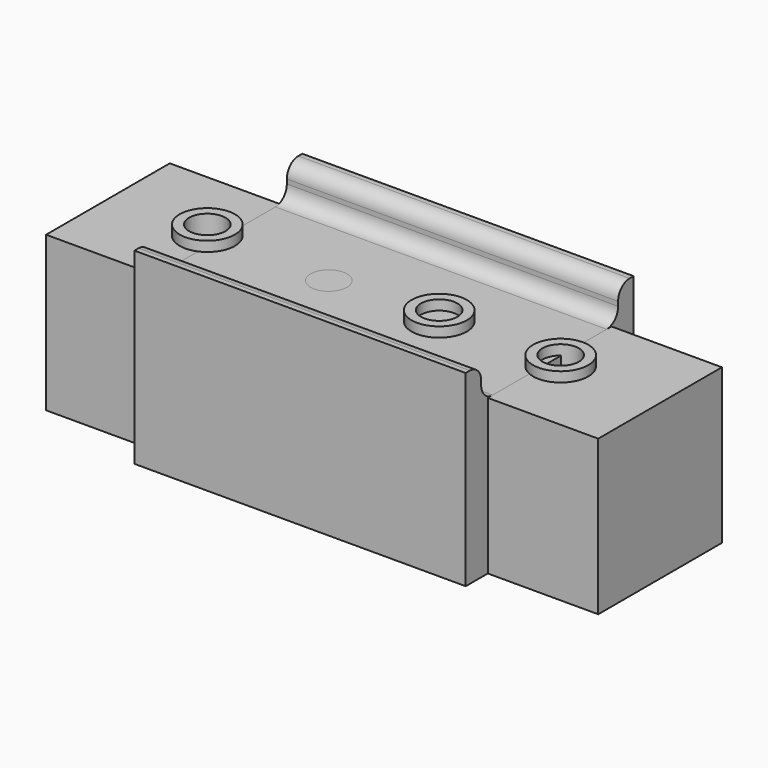
from build123d import *

# Parameters (mm, degrees)
CYLINDER005_R     = 1.65
CYLINDER005_DEPTH = 15
CYLINDER006_R     = 1.65
CYLINDER006_DEPTH = 15
CYLINDER004_R     = 2
CYLINDER004_DEPTH = 10
CYLINDER002_R     = 1.65
CYLINDER002_DEPTH = 14
CYLINDER_R        = 2.5
CYLINDER_DEPTH    = 14.9
BOX_W             = 50
BOX_H             = 14
BOX_DEPTH         = 14
CYLINDER001_R     = 2.5
CYLINDER001_DEPTH = 14.9
CYLINDER009_R     = 1.65
CYLINDER009_DEPTH = 14
CYLINDER008_R     = 1.65
CYLINDER008_DEPTH = 14.9
BOX002_W          = 30
BOX002_H          = 15.5
BOX002_DEPTH      = 10
BOX001_W          = 30
BOX001_H          = 19
BOX001_DEPTH      = 17
FILLET_R          = 1.3
CYLINDER007_R     = 2.5
CYLINDER007_DEPTH = 14.9
CYLINDER011_R     = 3.75
CYLINDER011_DEPTH = 6
CYLINDER012_R     = 1.65
CYLINDER012_DEPTH = 14
CYLINDER010_R     = 2
CYLINDER010_DEPTH = 14
BOX004_W          = 30
BOX004_H          = 15.5
BOX004_DEPTH      = 10
BOX003_W          = 30
BOX003_H          = 19
BOX003_DEPTH      = 17
FILLET001_R       = 1.3


with BuildPart() as cylinder005:
    # Cylinder005 → Cylinder005 (new body)
    with BuildSketch(Plane(origin=(16, 0, 0), x_dir=(1, 0, 0), z_dir=(0, 0, 1))):
        Circle(CYLINDER005_R)
    extrude(amount=CYLINDER005_DEPTH)


with BuildPart() as cylinder006:
    # Cylinder006 → Cylinder006 (new body)
    with BuildSketch(Plane(origin=(-16, 0, 0), x_dir=(1, 0, 0), z_dir=(0, 0, 1))):
        Circle(CYLINDER006_R)
    extrude(amount=CYLINDER006_DEPTH)


with BuildPart() as cylinder004:
    # Cylinder004 → Cylinder004 (new body)
    with BuildSketch(Plane.XY):
        Circle(CYLINDER004_R)
    extrude(amount=CYLINDER004_DEPTH)


with BuildPart() as fusion004:
    # Cylinder002 → Cylinder002 (new body)
    with BuildSketch(Plane.XY):
        Circle(CYLINDER002_R)
    extrude(amount=CYLINDER002_DEPTH)

    # Fusion004: union Cylinder005, Cylinder006, Cylinder004
    add(cylinder005.part)
    add(cylinder006.part)
    add(cylinder004.part)


with BuildPart() as cylinder:
    # Cylinder → Cylinder (new body)
    with BuildSketch(Plane(origin=(16, 0, 0), x_dir=(1, 0, 0), z_dir=(0, 0, 1))):
        Circle(CYLINDER_R)
    extrude(amount=CYLINDER_DEPTH)


with BuildPart() as box:
    # Box → Box (new body)
    with BuildSketch(Plane(origin=(-25, -7, 0), x_dir=(1, 0, 0), z_dir=(0, 0, 1))):
        with Locations((25, 7)):
            Rectangle(BOX_W, BOX_H)
    extrude(amount=BOX_DEPTH)


with BuildPart() as cut:
    # Cylinder001 → Cylinder001 (new body)
    with BuildSketch(Plane(origin=(-16, 0, 0), x_dir=(1, 0, 0), z_dir=(0, 0, 1))):
        Circle(CYLINDER001_R)
    extrude(amount=CYLINDER001_DEPTH)

    # Fusion: union Cylinder, Box
    add(cylinder.part)
    add(box.part)

    # Cut: cut Fusion004
    add(fusion004.part, mode=Mode.SUBTRACT)


with BuildPart() as cylinder009:
    # Cylinder009 → Cylinder009 (new body)
    with BuildSketch(Plane(origin=(-5, 0, 0), x_dir=(1, 0, 0), z_dir=(0, 0, 1))):
        Circle(CYLINDER009_R)
    extrude(amount=CYLINDER009_DEPTH)


with BuildPart() as fusion005:
    # Cylinder008 → Cylinder008 (new body)
    with BuildSketch(Plane(origin=(5, 0, 0), x_dir=(1, 0, 0), z_dir=(0, 0, 1))):
        Circle(CYLINDER008_R)
    extrude(amount=CYLINDER008_DEPTH)

    # Fusion005: union Cylinder009
    add(cylinder009.part)


with BuildPart() as box002:
    # Box002 → Box002 (new body)
    with BuildSketch(Plane(origin=(-15, -7.75, 14), x_dir=(1, 0, 0), z_dir=(0, 0, 1))):
        with Locations((15, 7.75)):
            Rectangle(BOX002_W, BOX002_H)
    extrude(amount=BOX002_DEPTH)


with BuildPart() as fillet_body:
    # Box001 → Box001 (new body)
    with BuildSketch(Plane(origin=(-15, -9.5, 0), x_dir=(1, 0, 0), z_dir=(0, 0, 1))):
        with Locations((15, 9.5)):
            Rectangle(BOX001_W, BOX001_H)
    extrude(amount=BOX001_DEPTH)

    # Cut001: cut Box002
    add(box002.part, mode=Mode.SUBTRACT)

    # Fillet
    fillet_edges = [fillet_body.edges().sort_by_distance(p)[0] for p in [
        (0, -7.75, 17),
        (0, -7.75, 14),
        (0, 7.75, 14),
        (0, 7.75, 17),
    ]]
    fillet(fillet_edges, radius=FILLET_R)


with BuildPart() as cut003:
    # Cylinder007 → Cylinder007 (new body)
    with BuildSketch(Plane(origin=(5, 0, 0), x_dir=(1, 0, 0), z_dir=(0, 0, 1))):
        Circle(CYLINDER007_R)
    extrude(amount=CYLINDER007_DEPTH)

    # Fusion002: union Fillet body
    add(fillet_body.part)

    # Cut003: cut Fusion005
    add(fusion005.part, mode=Mode.SUBTRACT)


with BuildPart() as cylinder011:
    # Cylinder011 → Cylinder011 (new body)
    with BuildSketch(Plane(origin=(5, 0, 0), x_dir=(1, 0, 0), z_dir=(0, 0, 1))):
        Circle(CYLINDER011_R)
    extrude(amount=CYLINDER011_DEPTH)


with BuildPart() as cylinder012:
    # Cylinder012 → Cylinder012 (new body)
    with BuildSketch(Plane(origin=(-5, 0, 0), x_dir=(1, 0, 0), z_dir=(0, 0, 1))):
        Circle(CYLINDER012_R)
    extrude(amount=CYLINDER012_DEPTH)


with BuildPart() as fusion006:
    # Cylinder010 → Cylinder010 (new body)
    with BuildSketch(Plane(origin=(5, 0, 0), x_dir=(1, 0, 0), z_dir=(0, 0, 1))):
        Circle(CYLINDER010_R)
    extrude(amount=CYLINDER010_DEPTH)

    # Fusion006: union Cylinder011, Cylinder012
    add(cylinder011.part)
    add(cylinder012.part)


with BuildPart() as box004:
    # Box004 → Box004 (new body)
    with BuildSketch(Plane(origin=(-15, -7.75, 14), x_dir=(1, 0, 0), z_dir=(0, 0, 1))):
        with Locations((15, 7.75)):
            Rectangle(BOX004_W, BOX004_H)
    extrude(amount=BOX004_DEPTH)


with BuildPart() as cut004:
    # Box003 → Box003 (new body)
    with BuildSketch(Plane(origin=(-15, -9.5, 0), x_dir=(1, 0, 0), z_dir=(0, 0, 1))):
        with Locations((15, 9.5)):
            Rectangle(BOX003_W, BOX003_H)
    extrude(amount=BOX003_DEPTH)

    # Cut002: cut Box004
    add(box004.part, mode=Mode.SUBTRACT)

    # Fillet001
    fillet001_edges = [cut004.edges().sort_by_distance(p)[0] for p in [
        (0, -7.75, 17),
        (0, -7.75, 14),
        (0, 7.75, 14),
        (0, 7.75, 17),
    ]]
    fillet(fillet001_edges, radius=FILLET001_R)

    # Cut004: cut Fusion006
    add(fusion006.part, mode=Mode.SUBTRACT)


solid = Compound([cut.part, cut003.part, cut004.part])
